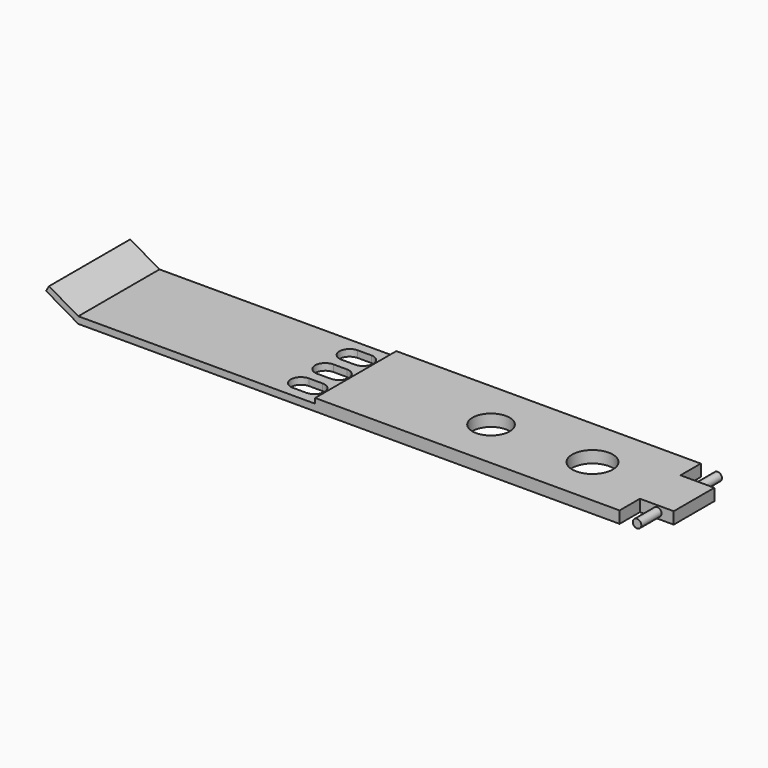
from build123d import *

# Parameters (mm, degrees)
F1_DEPTH  = 30
F2_W      = 15
F2_H      = 3.5
F3_DEPTH  = 10
F4_R      = 1.25
F5_DEPTH  = 7.5
F6_R      = 1.25
F7_DEPTH  = 7.5
F9_DEPTH  = 25
F10_R     = 6
F10_R_2   = 5.5
F11_DEPTH = 25


with BuildPart() as f1:
    # F0 (on Front) → F1 (new body)
    with BuildSketch(Plane.XZ):
        Polygon((-8.73931, 2), (-78.73931, 2), (-87.399564, 7), (-88.265589, 5.5), (-78.73931, 0), (-8.73931, 0), (81.26069, 0), (81.26069, 3.5), (-8.73931, 3.5), align=None)
    extrude(amount=F1_DEPTH)

    # F2 (on face) → F3 (join)
    with BuildSketch(Plane.YZ.offset(81.26069)):
        with Locations((-15, 1.75)):
            Rectangle(F2_W, F2_H)
    extrude(amount=F3_DEPTH)

    # F4 (on face) → F5 (join)
    with BuildSketch(Plane.XZ.offset(22.5)):
        with Locations((86.425211, 1.75)):
            Circle(F4_R)
    extrude(amount=F5_DEPTH)

    # F6 (on face) → F7 (join)
    with BuildSketch(Plane(origin=(0, -7.5, 0), x_dir=(-1, 0, 0), z_dir=(0, 1, 0))):
        with Locations((-86.26069, 1.75)):
            Circle(F6_R)
    extrude(amount=F7_DEPTH)

    # F8 (on face) → F9 (cut)
    with BuildSketch(Plane.XY.offset(2)):
        with BuildLine():
            Line((-17.73931, -18), (-13.73931, -18))
            ThreePointArc((-13.73931, -18), (-10.73931, -15), (-13.73931, -12))
            Line((-13.73931, -12), (-17.73931, -12))
            ThreePointArc((-17.73931, -12), (-20.73931, -15), (-17.73931, -18))
        make_face()
        with BuildLine():
            Line((-13.73931, -21), (-17.73931, -21))
            ThreePointArc((-17.73931, -21), (-20.73931, -24), (-17.73931, -27))
            Line((-17.73931, -27), (-13.73931, -27))
            ThreePointArc((-13.73931, -27), (-10.73931, -24), (-13.73931, -21))
        make_face()
        with BuildLine():
            ThreePointArc((-17.73931, -3), (-20.73931, -6), (-17.73931, -9))
            Line((-17.73931, -9), (-13.73931, -9))
            ThreePointArc((-13.73931, -9), (-10.73931, -6), (-13.73931, -3))
            Line((-13.73931, -3), (-17.73931, -3))
        make_face()
    extrude(amount=-F9_DEPTH, mode=Mode.SUBTRACT)

    # F10 (on face) → F11 (cut)
    with BuildSketch(Plane.XY.offset(3.5)):
        with Locations((61.26069, -15)):
            Circle(F10_R)
        with Locations((31.26069, -15)):
            Circle(F10_R_2)
    extrude(amount=-F11_DEPTH, mode=Mode.SUBTRACT)


solid = f1.part
